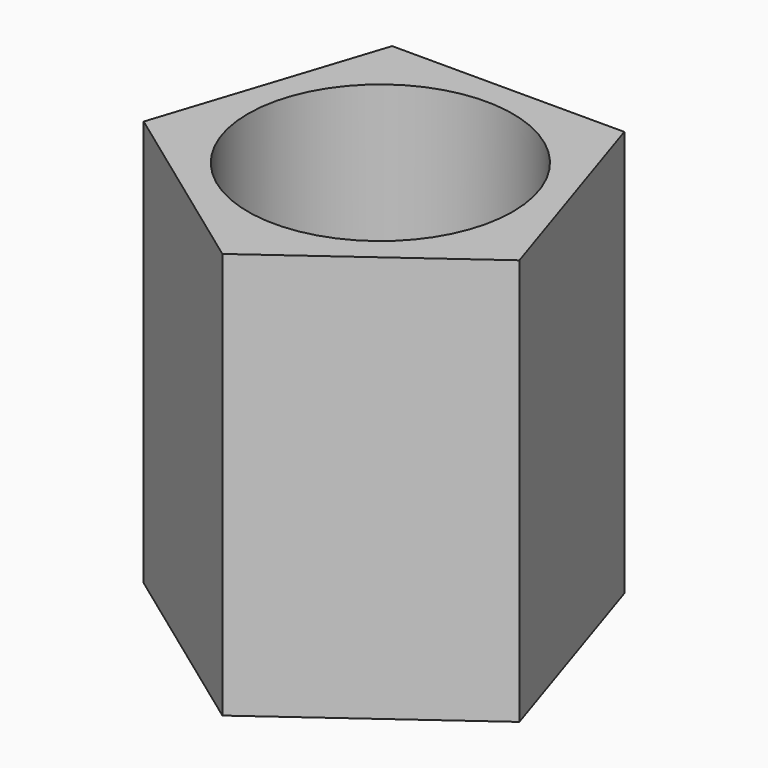
from build123d import *

# Parameters (mm, degrees)
F0_R     = 53.413707
F1_DEPTH = 163.83


with BuildPart() as f1:
    # F0 (on Top) → F1 (new body)
    with BuildSketch(Plane.XY):
        Polygon((46.796453, 64.409792), (-46.796453, 64.409792), (-75.718252, -24.602351), (0, -79.614882), (75.718252, -24.602351), align=None)
        Circle(F0_R, mode=Mode.SUBTRACT)
    extrude(amount=F1_DEPTH)


solid = f1.part
